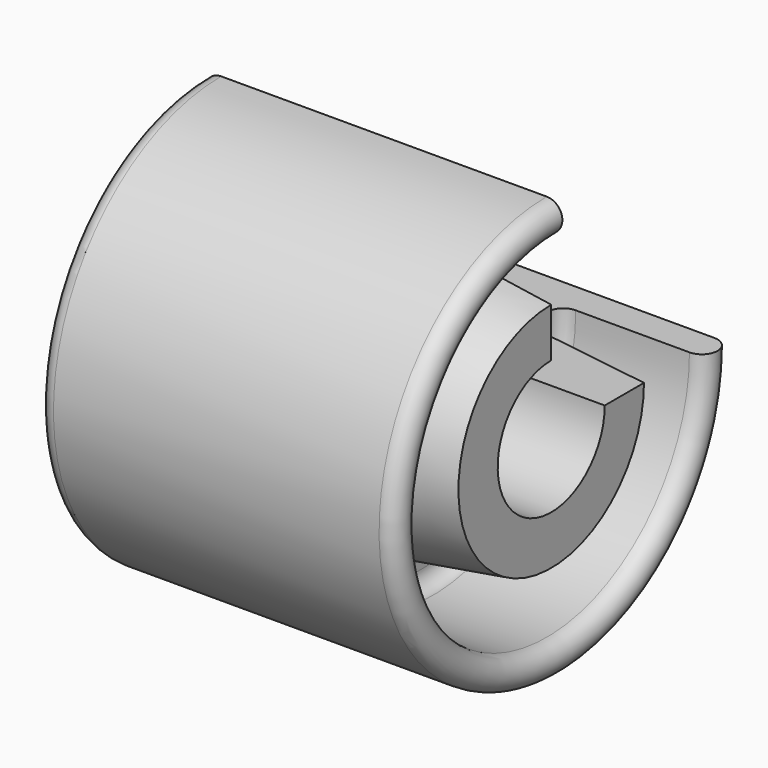
from build123d import *

# Parameters (mm, degrees)
REVOLUTION_ANGLE = 270


with BuildPart() as part:
    # Sketch → Revolution (revolve)
    with BuildSketch(Plane.XZ):
        with BuildLine():
            Line((-37.5, 15), (37.5, 15))
            Line((37.5, 15), (37.5, 26))
            Line((37.5, 26), (10.487315, 30))
            ThreePointArc((7.5, 33.462247), (8.350057, 31.175808), (10.487315, 30))
            Line((7.5, 33.462247), (7.5, 36.5))
            ThreePointArc((11, 40), (8.525126, 38.974874), (7.5, 36.5))
            Line((11, 40), (36.500017, 40))
            ThreePointArc((36.500017, 40), (40, 43.500007), (36.500002, 47))
            Line((36.500002, 47), (-36.5, 47))
            ThreePointArc((-36.5, 47), (-40, 43.500008), (-36.500016, 40))
            Line((-36.500016, 40), (-11, 40))
            ThreePointArc((-7.5, 36.5), (-8.525126, 38.974874), (-11, 40))
            Line((-7.5, 36.5), (-7.5, 33.462247))
            ThreePointArc((-10.487315, 30), (-8.350057, 31.175808), (-7.5, 33.462247))
            Line((-10.487315, 30), (-37.5, 26))
            Line((-37.5, 26), (-37.5, 15))
        make_face()
    revolve(axis=Axis((0, 0, 0), (1, 0, 0)), revolution_arc=REVOLUTION_ANGLE)


solid = part.part
